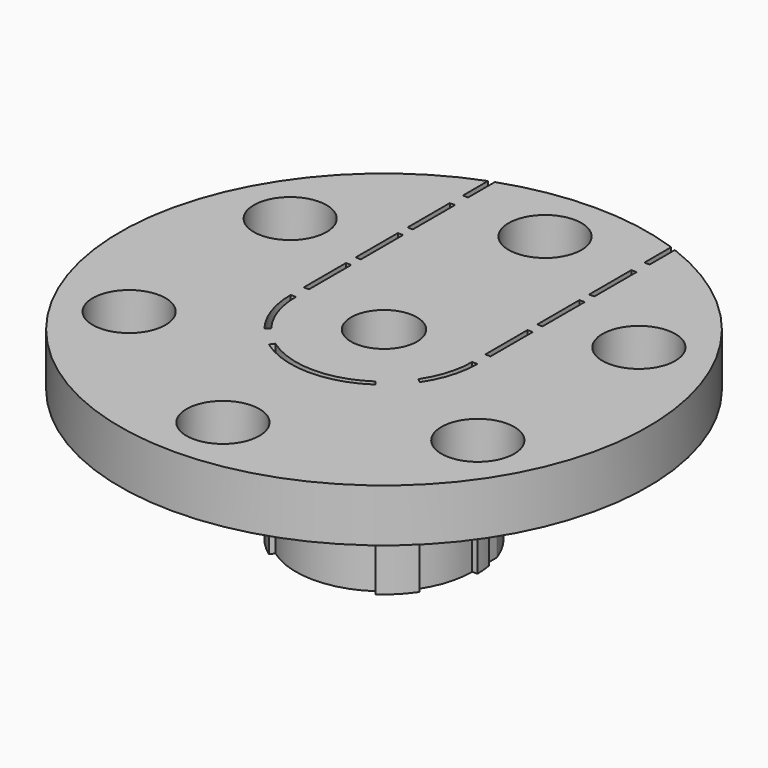
from build123d import *

# Parameters (mm, degrees)
F0_R     = 4.4958
F0_R_2   = 1.5875
F1_DEPTH = 6.35
F2_R     = 12.7
F2_R_2   = 1.7526
F2_R_3   = 1.5875
F3_DEPTH = 2.54
F4_W     = 0.254
F4_H     = 2.54
F5_DEPTH = 25.4


with BuildPart() as f1:
    # F0 (on Top) → F1 (new body)
    with BuildSketch(Plane.XY):
        Circle(F0_R)
        Circle(F0_R_2, mode=Mode.SUBTRACT)
    extrude(amount=F1_DEPTH)

    # F2 (on face) → F3 (join)
    with BuildSketch(Plane.XY.offset(6.35)):
        Circle(F2_R)
        with Locations((0, -9.6901)):
            Circle(F2_R_2, mode=Mode.SUBTRACT)
        with Locations((-8.3918727652, -4.84505)):
            Circle(F2_R_2, mode=Mode.SUBTRACT)
        Circle(F2_R_3, mode=Mode.SUBTRACT)
        with Locations((8.3918727652, -4.84505)):
            Circle(F2_R_2, mode=Mode.SUBTRACT)
        with Locations((-8.3918727652, 4.84505)):
            Circle(F2_R_2, mode=Mode.SUBTRACT)
        with Locations((0, 9.6901)):
            Circle(F2_R_2, mode=Mode.SUBTRACT)
        with Locations((8.3918727652, 4.84505)):
            Circle(F2_R_2, mode=Mode.SUBTRACT)
    extrude(amount=F3_DEPTH)

    # F4 (on face) → F5 (cut)
    with BuildSketch(Plane.XY.offset(8.89)):
        with BuildLine():
            Line((-4.2418, 0), (-4.4958, 0))
            ThreePointArc((-4.4958, 0), (-4.2552090791, -1.45100425), (-3.5591865681, -2.7467086874))
            Line((-3.5591865681, -2.7467086874), (-3.3648710152, -2.5827331048))
            ThreePointArc((-3.3648710152, -2.5827331048), (-4.0165891695, -1.3637736923), (-4.2418, 0))
        make_face()
        with Locations((4.3688, 8.3054968122)):
            Rectangle(F4_W, F4_H)
        with Locations((4.3688, 5.1822738967)):
            Rectangle(F4_W, F4_H)
        with BuildLine():
            ThreePointArc((2.3889624864, -3.5050999242), (-0.0460958584, -4.2415495296), (-2.4645739513, -3.4523531799))
            Line((-2.4645739513, -3.4523531799), (-2.6152441527, -3.656872388))
            ThreePointArc((-2.6152441527, -3.656872388), (-0.0391240272, -4.4956297613), (2.5512036829, -3.7018343302))
            Line((2.5512036829, -3.7018343302), (2.3889624864, -3.5050999242))
        make_face()
        with Locations((-4.3688, 8.3054968122)):
            Rectangle(F4_W, F4_H)
        with Locations((-4.3688, 5.1822738967)):
            Rectangle(F4_W, F4_H)
        with Locations((-4.3688, 2.0590509812)):
            Rectangle(F4_W, F4_H)
        with Locations((4.3688, 2.0590509812)):
            Rectangle(F4_W, F4_H)
        with BuildLine():
            ThreePointArc((3.7276640074, -2.5133122941), (4.2994795897, -1.3140368708), (4.4958, 0))
            Line((4.4958, 0), (4.2418, 0))
            ThreePointArc((4.2418, 0), (4.0608262018, -1.2257886437), (3.5333470796, -2.3469822444))
            Line((3.5333470796, -2.3469822444), (3.7276640074, -2.5133122941))
        make_face()
        Polygon((-4.4958, 11.8806733481), (-4.4958, 10.3643210605), (-4.2418, 10.3643210605), (-4.2418, 11.9706780409), align=None)
        Polygon((4.2418, 11.973758473), (4.2418, 10.3643210605), (4.4958, 10.3643210605), (4.4958, 11.8776168637), align=None)
    extrude(amount=-F5_DEPTH, mode=Mode.SUBTRACT)


solid = f1.part
